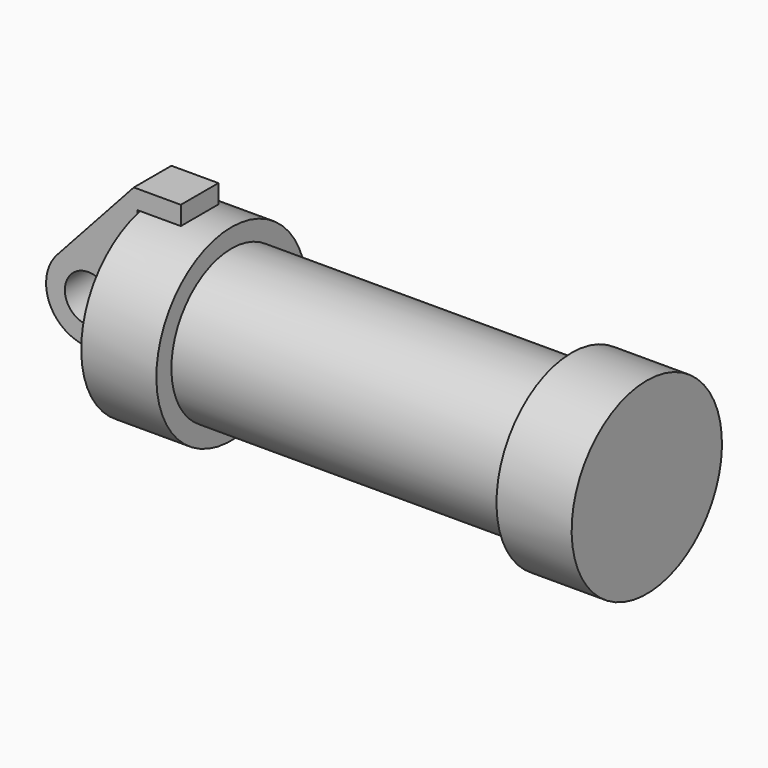
from build123d import *

# Parameters (mm, degrees)
F0_W     = 5.842
F0_H     = 12.7
F0_R     = 3.175
F2_DEPTH = 3.175


with BuildPart() as f1:
    # F0 (on Front) → F1 (revolve)
    with BuildSketch(Plane.XZ):
        Polygon((5.842, 12.7), (5.842, 0), (66.294, 0), (66.294, 12.7), (56.134, 12.7), (56.134, 10.16), (10.16, 10.16), (10.16, 12.7), align=None)
        with Locations((2.921, 6.35)):
            Rectangle(F0_W, F0_H)
    revolve(axis=Axis((33.147, 0, 0), (-1, 0, 0)))


with BuildPart() as f2:
    # F0 (on Front) → F2 (new body, symmetric)
    with BuildSketch(Plane.XZ):
        with BuildLine():
            Line((-0.9398, 0), (0, 0))
            Line((0, 0), (0, 12.7))
            Line((0, 12.7), (5.842, 12.7))
            Line((5.842, 12.7), (5.842, 15.24))
            Line((5.842, 15.24), (-0.508, 15.24))
            Line((-0.508, 15.24), (-10.88063, 3.847543))
            ThreePointArc((-10.88063, 3.847543), (-4.591961, 5.329721), (-0.9398, 0))
        make_face()
        with BuildLine():
            Line((5.842, 0), (0, 0))
            Line((0, 0), (-0.9398, 0))
            ThreePointArc((-0.9398, 0), (-3.195791, -4.549339), (-8.182663, -5.506983))
            Line((-8.182663, -5.506983), (5.842, -9.398))
            Line((5.842, -9.398), (5.842, 0))
        make_face()
        with BuildLine():
            ThreePointArc((-8.182663, -5.506983), (-3.195791, -4.549339), (-0.9398, 0))
            ThreePointArc((-0.9398, 0), (-4.591961, 5.329721), (-10.88063, 3.847543))
            ThreePointArc((-10.88063, 3.847543), (-12.145978, -1.583727), (-8.182663, -5.506983))
        make_face()
        with Locations((-6.6548, 0)):
            Circle(F0_R, mode=Mode.SUBTRACT)
    extrude(amount=F2_DEPTH, both=True)


solid = Compound([f1.part, f2.part])
